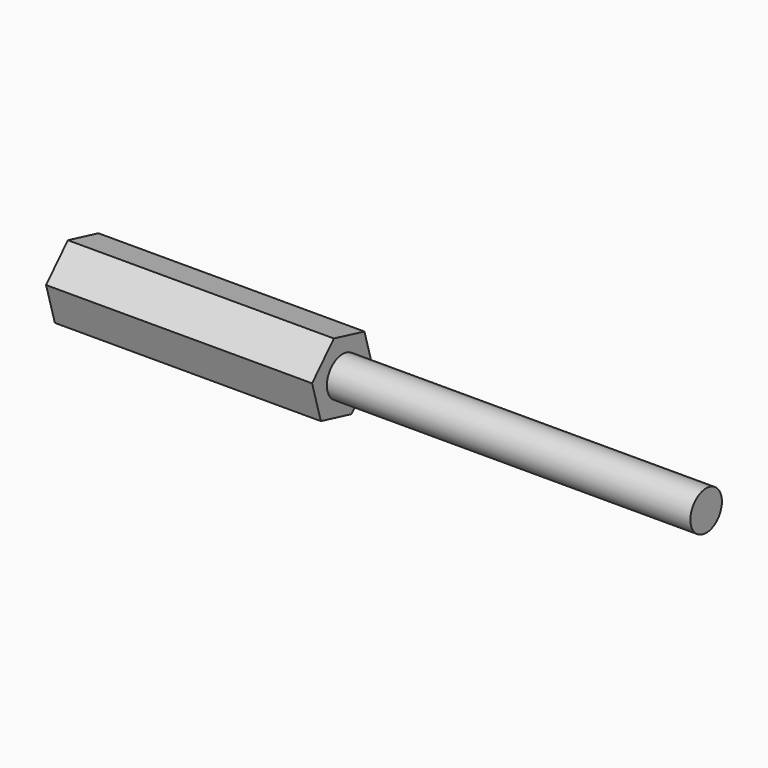
from build123d import *

# Parameters (mm, degrees)
F0_R     = 28.195536
F1_DEPTH = 355.6
F3_DEPTH = 190.5


with BuildPart() as f1:
    # F0 (on Right) → F1 (new body, symmetric)
    with BuildSketch(Plane.YZ):
        Circle(F0_R)
    extrude(amount=F1_DEPTH, both=True)

    # F2 (on face) → F3 (join, symmetric)
    with BuildSketch(Plane(origin=(-355.6, 0, 0), x_dir=(0, -1, 0), z_dir=(-1, 0, 0))):
        Polygon((54.718636, 13.456735), (15.705444, 54.116097), (-39.013193, 40.659361), (-54.718636, -13.456735), (-15.705444, -54.116097), (39.013193, -40.659361), align=None)
    extrude(amount=F3_DEPTH, both=True)


solid = f1.part
